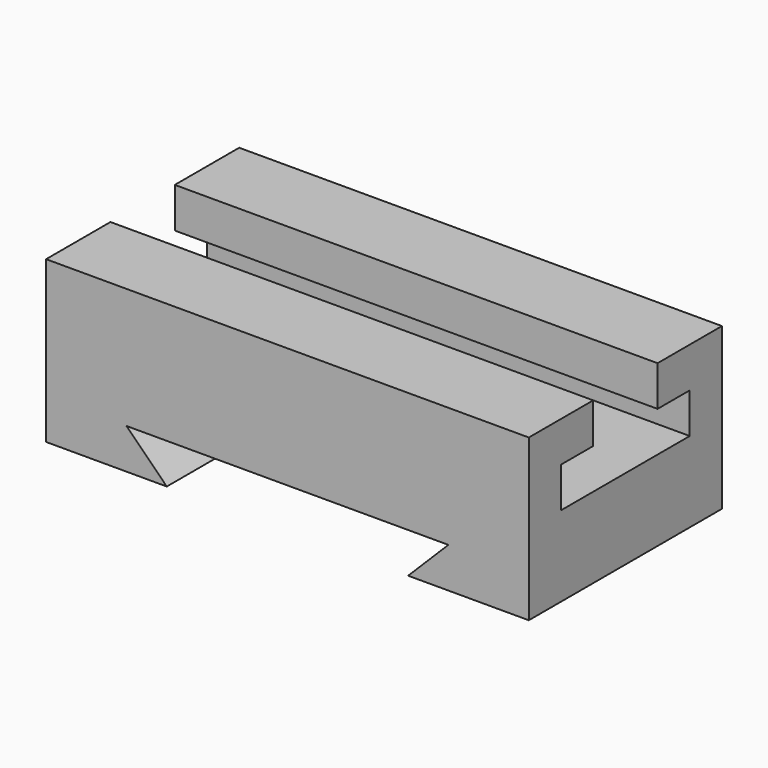
from build123d import *

# Parameters (mm, degrees)
F0_W      = 152.4
F0_H      = 50.8
F1_DEPTH  = 38.1
F1_FACE_W = 152.4
F1_FACE_H = 50.8
F2_DEPTH  = 38.1
F4_DEPTH  = 76.2
F6_DEPTH  = 152.4


with BuildPart() as f1:
    # F0 (on Front) → F1 (new body)
    with BuildSketch(Plane.XZ):
        Rectangle(F0_W, F0_H)
    extrude(amount=F1_DEPTH)

    # F1_face (on face) → F2 (join)
    with BuildSketch(Plane(origin=(0, 0, 0), x_dir=(1, 0, 0), z_dir=(0, 1, 0))):
        Rectangle(F1_FACE_W, F1_FACE_H)
    extrude(amount=F2_DEPTH)

    # F3 (on face) → F4 (cut)
    with BuildSketch(Plane.XZ.offset(38.1)):
        Polygon((50.8, -12.7), (-50.8, -12.7), (-38.1, -25.4), (38.1, -25.4), align=None)
    extrude(amount=-F4_DEPTH, mode=Mode.SUBTRACT)

    # F5 (on face) → F6 (cut)
    with BuildSketch(Plane.YZ.offset(76.2)):
        Polygon((12.7, 25.4), (-12.7, 25.4), (-12.7, 12.7), (-25.4, 12.7), (-25.4, 0), (25.4, 0), (25.4, 12.7), (12.7, 12.7), align=None)
    extrude(amount=-F6_DEPTH, mode=Mode.SUBTRACT)


solid = f1.part
